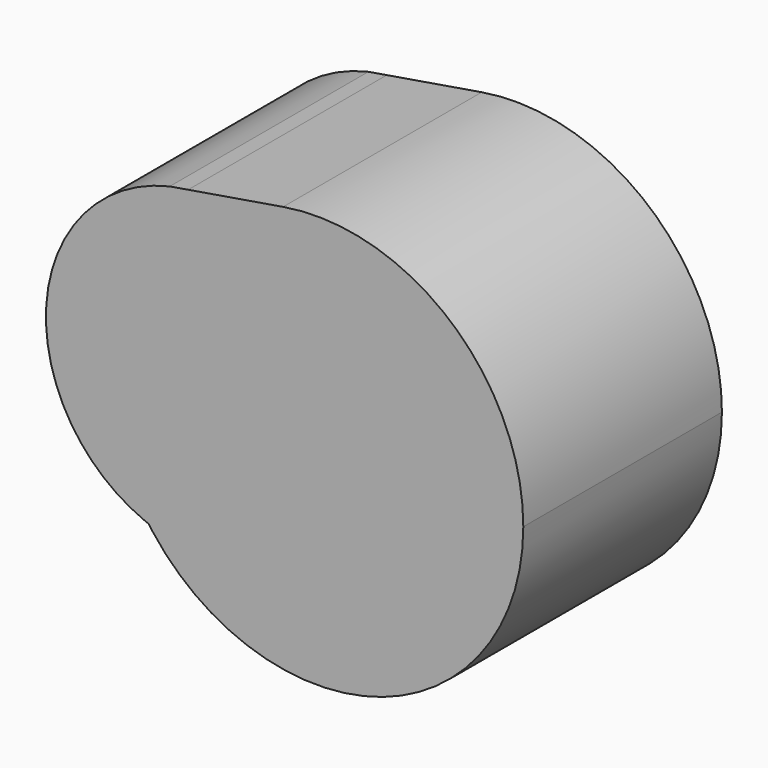
from build123d import *

# Parameters (mm, degrees)
F1_DEPTH = 25


with BuildPart() as f1:
    # F0 (on Front) → F1 (new body)
    with BuildSketch(Plane.XZ):
        with BuildLine():
            ThreePointArc((-8.8295196456, 18.8055112927), (-20.0875188116, 5.3008735268), (-16.9588197094, -12.000254423))
            ThreePointArc((-16.9588197094, -12.000254423), (-2.1757538998, -10.2100076504), (4.7458616886, 2.9746522196))
            ThreePointArc((4.7458616886, 2.9746522196), (0.8872739198, 13.4018651425), (-8.8295196456, 18.8055112927))
        make_face()
        with BuildLine():
            Line((-16.5556425715, -12.5506323027), (-9.3621872848, -18.5460810253))
            ThreePointArc((-9.3621872848, -18.5460810253), (10.8882194005, -17.6933419805), (20.7751696059, 0))
            ThreePointArc((20.7751696059, 0), (13.4306404976, 15.8500967813), (-3.4100065197, 20.4934020526))
            ThreePointArc((-3.4100065197, 20.4934020526), (-6.1776811177, 19.8354210482), (-8.8295196456, 18.8055112927))
            ThreePointArc((-8.8295196456, 18.8055112927), (0.8872739198, 13.4018651425), (4.7458616886, 2.9746522196))
            ThreePointArc((4.7458616886, 2.9746522196), (-2.1757538998, -10.2100076504), (-16.9588197094, -12.000254423))
            ThreePointArc((-16.9588197094, -12.000254423), (-16.7594905784, -12.2770985052), (-16.5556425715, -12.5506323027))
        make_face()
        with BuildLine():
            ThreePointArc((-8.8295196456, 18.8055112927), (-6.1776811177, 19.8354210482), (-3.4100065197, 20.4934020526))
            Line((-3.4100065197, 20.4934020526), (-12.9699571499, 18.9026707779))
            ThreePointArc((-12.9699571499, 18.9026707779), (-10.8965850449, 18.9884707144), (-8.8295196456, 18.8055112927))
        make_face()
        with BuildLine():
            ThreePointArc((-24.6952650499, -5.7665921932), (-21.5278954125, -9.3301311655), (-17.45197637, -11.8035749967))
            Line((-17.45197637, -11.8035749967), (-24.6952650499, -5.7665921932))
        make_face()
        with BuildLine():
            ThreePointArc((-17.45197637, -11.8035749967), (-17.2062129716, -11.9039580811), (-16.9588197094, -12.000254423))
            ThreePointArc((-16.9588197094, -12.000254423), (-20.0875188116, 5.3008735268), (-8.8295196456, 18.8055112927))
            ThreePointArc((-8.8295196456, 18.8055112927), (-10.8965850449, 18.9884707144), (-12.9699571499, 18.9026707779))
            Line((-12.9699571499, 18.9026707779), (-14.8241322551, 18.5941446733))
            ThreePointArc((-14.8241322551, 18.5941446733), (-26.1181122223, 8.9902477588), (-24.6952650499, -5.7665921932))
            Line((-24.6952650499, -5.7665921932), (-17.45197637, -11.8035749967))
        make_face()
        with BuildLine():
            ThreePointArc((-16.5556425715, -12.5506323027), (-13.3011212859, -15.9589424678), (-9.3621872848, -18.5460810253))
            Line((-9.3621872848, -18.5460810253), (-16.5556425715, -12.5506323027))
        make_face()
    extrude(amount=F1_DEPTH)


solid = f1.part
